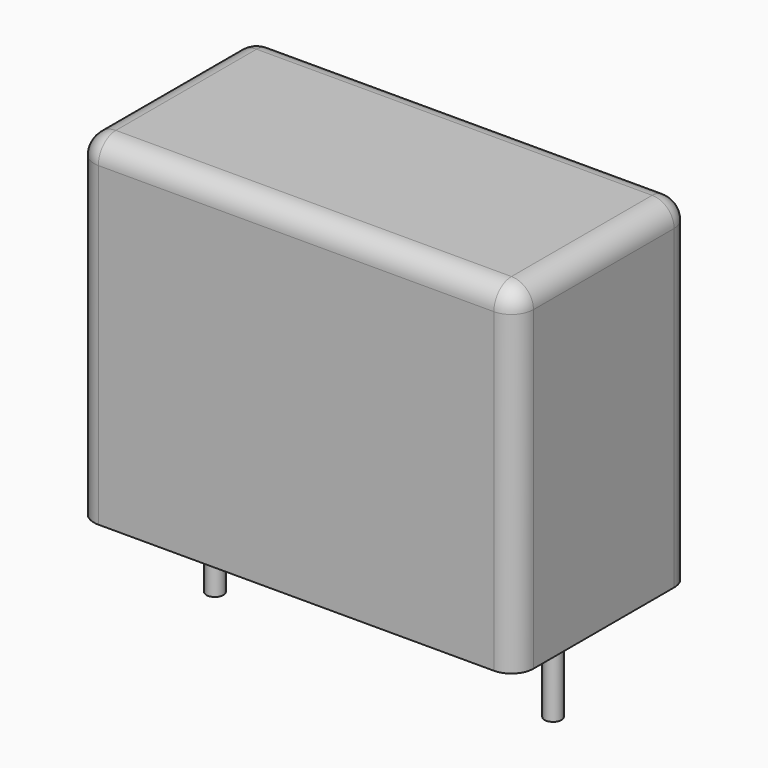
from build123d import *

# Parameters (mm, degrees)
SKETCH_W     = 13
SKETCH_H     = 6.5
PAD_DEPTH    = 10
FILLET_R     = 0.65
SKETCH001_R  = 0.25
PAD001_DEPTH = 3.2


with BuildPart() as fillet_body:
    # Sketch → Pad (new body)
    with BuildSketch(Plane.XY.offset(0.1)):
        with Locations((5, 0)):
            Rectangle(SKETCH_W, SKETCH_H)
    extrude(amount=PAD_DEPTH)

    # Fillet
    fillet_edges = [fillet_body.edges().sort_by_distance(p)[0] for p in [
        (-1.5, 0, 10.1),
        (-1.5, -3.25, 5.1),
        (5, -3.25, 10.1),
        (11.5, -3.25, 5.1),
        (11.5, 0, 10.1),
        (11.5, 3.25, 5.1),
        (5, 3.25, 10.1),
        (-1.5, 3.25, 5.1),
    ]]
    fillet(fillet_edges, radius=FILLET_R)


with BuildPart() as pad001:
    # Sketch001 → Pad001 (new body)
    with BuildSketch(Plane.XY.offset(0.5)):
        Circle(SKETCH001_R)
        with Locations((10, 0)):
            Circle(SKETCH001_R)
    extrude(amount=-PAD001_DEPTH)


solid = Compound([fillet_body.part, pad001.part])
